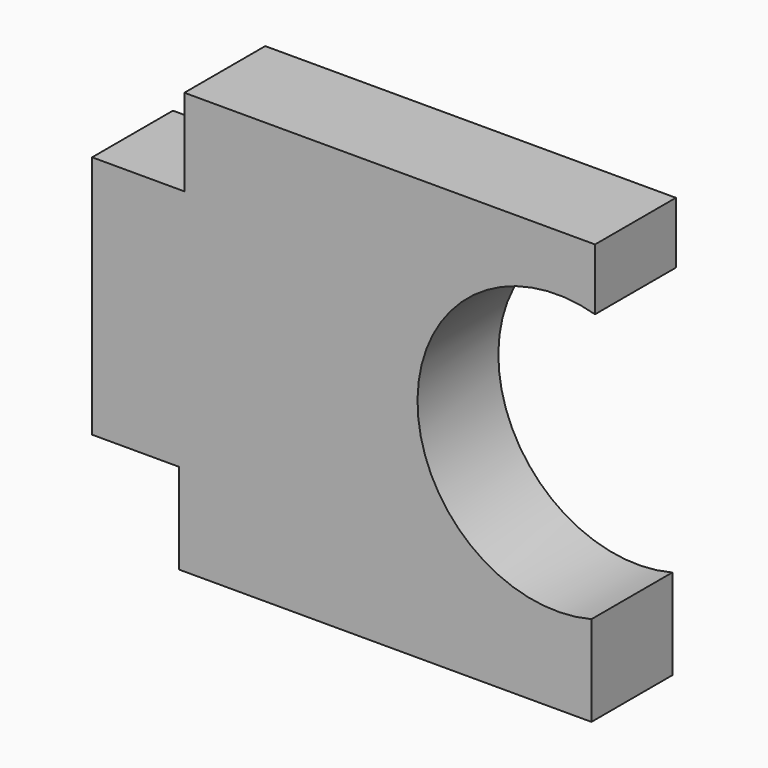
from build123d import *

# Parameters (mm, degrees)
F1_DEPTH = 25


with BuildPart() as f1:
    # F0 (on Front) → F1 (new body)
    with BuildSketch(Plane.XZ):
        with BuildLine():
            Line((44.989612, 51.928312), (-56.628712, 51.928312))
            Line((-56.628712, 51.928312), (-56.628712, 30.440735))
            Line((-56.628712, 30.440735), (-79.459257, 30.440735))
            Line((-79.459257, 30.440735), (-79.459257, -29.99307))
            Line((-79.459257, -29.99307), (-57.971686, -29.99307))
            Line((-57.971686, -29.99307), (-57.971686, -52.375961))
            Line((-57.971686, -52.375961), (44.094294, -52.375961))
            Line((44.094294, -52.375961), (44.094294, -29.99307))
            ThreePointArc((44.094294, -29.99307), (1.06181, 3.941063), (44.989612, 36.707941))
            Line((44.989612, 36.707941), (44.989612, 51.928312))
        make_face()
    extrude(amount=F1_DEPTH)


solid = f1.part
